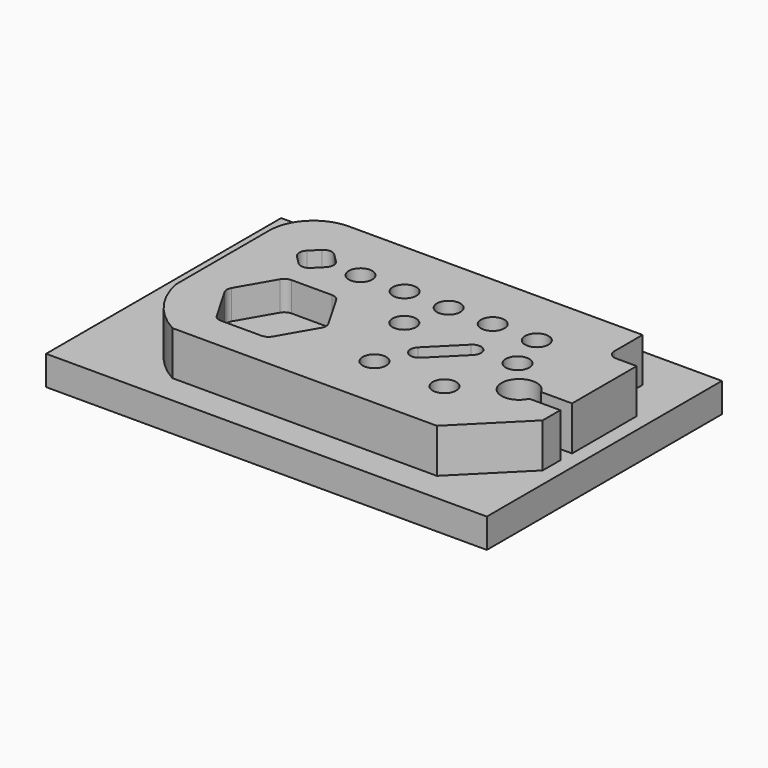
from build123d import *

# Parameters (mm, degrees)
F1_W      = 150
F1_H      = 100
F2_DEPTH  = 10
F3_W      = 125
F3_H      = 75
F4_DEPTH  = 15
F5_R      = 15
F6_SIZE   = 20
F7_W      = 10
F7_H      = 15
F8_DEPTH  = 15
F10_DEPTH = 15
F11_R     = 4
F12_DEPTH = 15
F14_DEPTH = 15
F16_DEPTH = 15
F18_DEPTH = 10
F20_DEPTH = 10
F21_R     = 3
F22_R     = 3


with BuildPart() as f2:
    # F1 (on offset) → F2 (new body)
    with BuildSketch(Plane.XY):
        with Locations((75, 50)):
            Rectangle(F1_W, F1_H)
    extrude(amount=F2_DEPTH)

    # F3 (on face) → F4 (join)
    with BuildSketch(Plane.XY.offset(10)):
        with Locations((82.5, 47.5)):
            Rectangle(F3_W, F3_H)
    extrude(amount=F4_DEPTH)

    # F5
    f5_edges = [f2.edges().sort_by_distance(p)[0] for p in [
        (20, 85, 17.5),
    ]]
    fillet(f5_edges, radius=F5_R)

    # F6
    f6_edges = [f2.edges().sort_by_distance(p)[0] for p in [
        (145, 10, 17.5),
    ]]
    chamfer(f6_edges, length=F6_SIZE)

    # F7 (on face) → F8 (cut)
    with BuildSketch(Plane.XY.offset(25)):
        with Locations((140, 77.5)):
            Rectangle(F7_W, F7_H)
    extrude(amount=-F8_DEPTH, mode=Mode.SUBTRACT)

    # F9 (on face) → F10 (cut, through all)
    with BuildSketch(Plane.XY.offset(25)):
        with BuildLine():
            ThreePointArc((35, 10), (25.3174242293, 18.363068172), (20, 30))
            Line((20, 30), (20, 10))
            Line((20, 10), (35, 10))
        make_face()
    extrude(amount=-F10_DEPTH, mode=Mode.SUBTRACT)

    # F11 (on face) → F12 (cut)
    with BuildSketch(Plane.XY.offset(25)):
        with Locations((55, 65)):
            Circle(F11_R)
        with Locations((70, 65)):
            Circle(F11_R)
        with Locations((85, 65)):
            Circle(F11_R)
        with Locations((100, 65)):
            Circle(F11_R)
        with Locations((115, 65)):
            Circle(F11_R)
        with Locations((119.2491547178, 51.4941885379)):
            Circle(F11_R)
        with Locations((112.352680654, 29.0136292458)):
            Circle(F11_R)
        with Locations((88.8412705623, 28.6256909792)):
            Circle(F11_R)
        with Locations((81.206894066, 50.8664912371)):
            Circle(F11_R)
    extrude(amount=-F12_DEPTH, mode=Mode.SUBTRACT)

    # F13 (on face) → F14 (cut)
    with BuildSketch(Plane.XY.offset(25)):
        Polygon((40, 72.0710678119), (32.9289321881, 65), (40, 57.9289321881), (47.0710678119, 65), align=None)
    extrude(amount=-F14_DEPTH, mode=Mode.SUBTRACT)

    # F15 (on face) → F16 (cut)
    with BuildSketch(Plane.XY.offset(25)):
        with BuildLine():
            Line((134.4543560573, 37.5), (145, 37.5))
            Line((145, 37.5), (145, 42.5))
            Line((145, 42.5), (134.4543560573, 42.5))
            ThreePointArc((134.4543560573, 42.5), (134.8620020617, 41.2794263668), (135, 40))
            ThreePointArc((135, 40), (134.8620020617, 38.7205736332), (134.4543560573, 37.5))
        make_face()
        with BuildLine():
            ThreePointArc((134.4543560573, 42.5), (123, 40), (134.4543560573, 37.5))
            Line((134.4543560573, 37.5), (129, 37.5))
            Line((129, 37.5), (129, 42.5))
            Line((129, 42.5), (134.4543560573, 42.5))
        make_face()
        with BuildLine():
            Line((129, 37.5), (134.4543560573, 37.5))
            ThreePointArc((134.4543560573, 37.5), (134.8620020617, 38.7205736332), (135, 40))
            ThreePointArc((135, 40), (134.8620020617, 41.2794263668), (134.4543560573, 42.5))
            Line((134.4543560573, 42.5), (129, 42.5))
            Line((129, 42.5), (129, 37.5))
        make_face()
    extrude(amount=-F16_DEPTH, mode=Mode.SUBTRACT)

    # F17 (on face) → F18 (cut)
    with BuildSketch(Plane.XY.offset(25)):
        with BuildLine():
            Line((102.8786796564, 52.1213203436), (92.8786796564, 42.1213203436))
            ThreePointArc((92.8786796564, 42.1213203436), (96.1480502971, 42.7716385975), (98, 40))
            ThreePointArc((98, 40), (97.7716385975, 38.8519497029), (97.1213203436, 37.8786796564))
            Line((97.1213203436, 37.8786796564), (107.1213203436, 47.8786796564))
            ThreePointArc((107.1213203436, 47.8786796564), (102.8786796564, 47.8786796564), (102.8786796564, 52.1213203436))
        make_face()
        with BuildLine():
            ThreePointArc((98, 40), (96.1480502971, 42.7716385975), (92.8786796564, 42.1213203436))
            ThreePointArc((92.8786796564, 42.1213203436), (92.8786796564, 37.8786796564), (97.1213203436, 37.8786796564))
            ThreePointArc((97.1213203436, 37.8786796564), (97.7716385975, 38.8519497029), (98, 40))
        make_face()
        with BuildLine():
            ThreePointArc((108, 50), (106.1480502971, 52.7716385975), (102.8786796564, 52.1213203436))
            ThreePointArc((102.8786796564, 52.1213203436), (102.8786796564, 47.8786796564), (107.1213203436, 47.8786796564))
            ThreePointArc((107.1213203436, 47.8786796564), (107.7716385975, 48.8519497029), (108, 50))
        make_face()
    extrude(amount=-F18_DEPTH, mode=Mode.SUBTRACT)

    # F19 (on face) → F20 (cut)
    with BuildSketch(Plane.XY.offset(25)):
        Polygon((40.6571701914, 51.363068172), (31.9969161536, 36.363068172), (40.6571701914, 21.363068172), (57.9776782671, 21.363068172), (66.637932305, 36.363068172), (57.9776782671, 51.363068172), align=None)
    extrude(amount=-F20_DEPTH, mode=Mode.SUBTRACT)

    # F21
    f21_edges = [f2.edges().sort_by_distance(p)[0] for p in [
        (32.928932, 65, 17.5),
        (40, 72.071068, 17.5),
        (47.071068, 65, 17.5),
        (40, 57.928932, 17.5),
        (57.977678, 51.363068, 20),
        (40.65717, 51.363068, 20),
        (31.996916, 36.363068, 20),
        (40.65717, 21.363068, 20),
        (57.977678, 21.363068, 20),
        (66.637932, 36.363068, 20),
    ]]
    fillet(f21_edges, radius=F21_R)

    # F22
    f22_edges = [f2.edges().sort_by_distance(p)[0] for p in [
        (135, 70, 17.5),
    ]]
    fillet(f22_edges, radius=F22_R)


solid = f2.part
